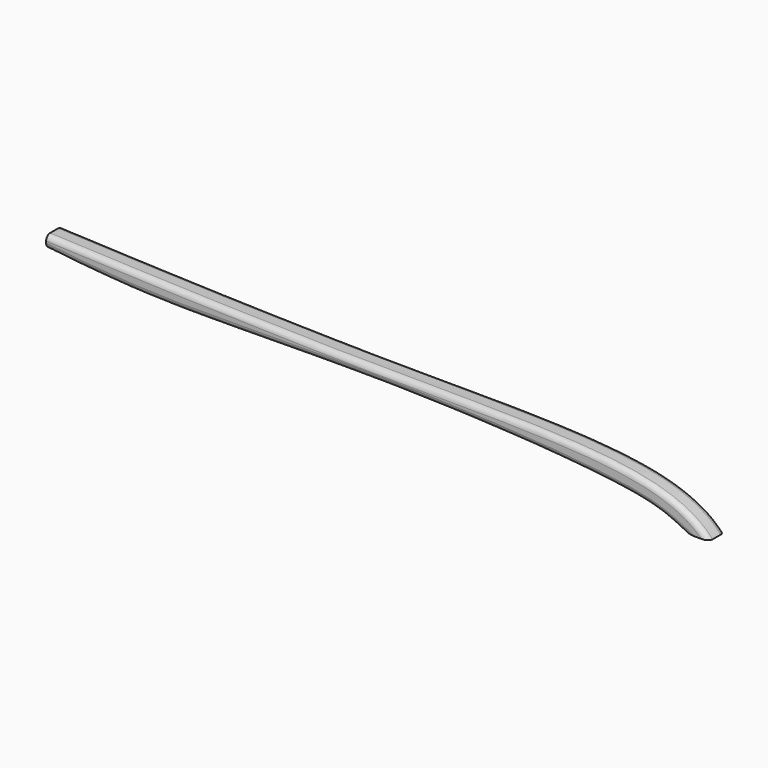
from build123d import *

# Parameters (mm, degrees)
F1_DEPTH = 2
F2_R     = 0.5


with BuildPart() as f1:
    # F0 (on Front) → F1 (new body)
    with BuildSketch(Plane.XZ):
        with BuildLine():
            Line((14.3448021263, 0), (16.7992051503, 0))
            add(Edge.make_bspline(
                [(16.7992051503, 0), (15.4002895089, 1.5504838861), (9.2921570099, 4.5853690926), (-16.2105595778, 4.1024355848), (-37.5716088805, 4.8699344554), (-48.6371364021, 5.353483587)],
                knots=[0, 0, 0, 0, 0.2028939029, 0.571181756, 1, 1, 1, 1], degree=3))
            Line((-48.6371364021, 5.353483587), (-48.6371364021, 4.174740985))
            add(Edge.make_bspline(
                [(14.3448021263, 0), (12.9925785227, 0.6673733568), (9.8412765105, 2.2219685161), (-15.3291914091, 3.7583454505), (-36.5488513474, 2.8941371435), (-45.1830461877, 3.7759927749), (-48.6371364021, 4.174740985)],
                knots=[0, 0, 0, 0, 0.1408915442, 0.4653116378, 0.7783452807, 1, 1, 1, 1], degree=3))
        make_face()
    extrude(amount=F1_DEPTH)

    # F2
    f2_edges = [f1.edges().sort_by_distance(p)[0] for p in [
        (-15.458159, 0, 4.382017),
        (-15.458159, -2, 4.382017),
        (-16.980901, 0, 3.318325),
        (-16.980901, -2, 3.318325),
    ]]
    fillet(f2_edges, radius=F2_R)


solid = f1.part
